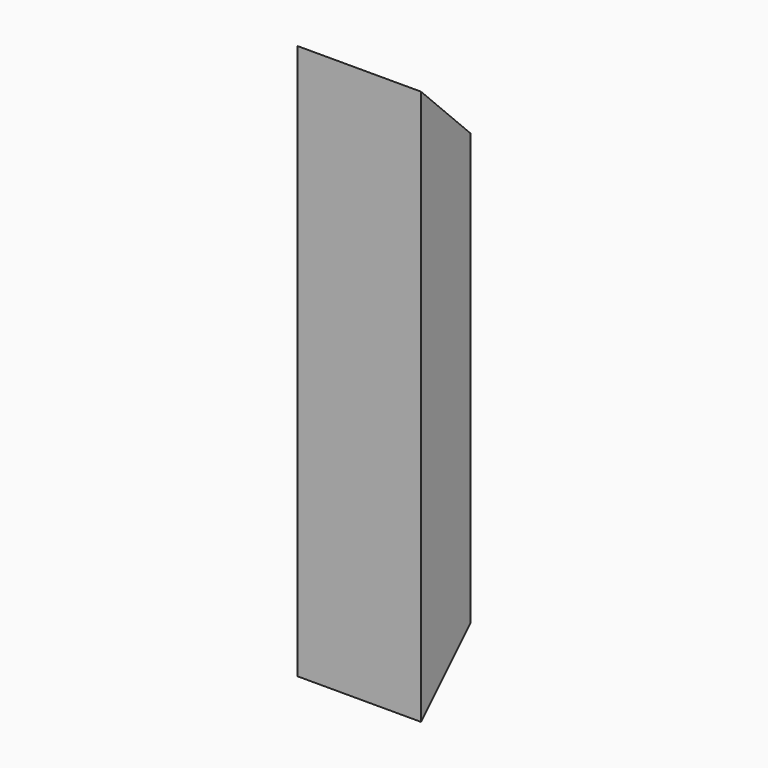
from build123d import *

# Parameters (mm, degrees)
F0_W     = 101.6
F0_H     = 50.8
F1_DEPTH = 457.2
F2_W     = 82.55
F2_H     = 31.75
F3_DEPTH = 457.2
F5_DEPTH = 101.6
F7_DEPTH = 101.6


with BuildPart() as f1:
    # F0 (on Top) → F1 (new body)
    with BuildSketch(Plane.XY):
        with Locations((50.8, 25.4)):
            Rectangle(F0_W, F0_H)
    extrude(amount=F1_DEPTH)

    # F2 (on face) → F3 (cut)
    with BuildSketch(Plane.XY.offset(457.2)):
        with Locations((50.8, 25.4)):
            Rectangle(F2_W, F2_H)
    extrude(amount=-F3_DEPTH, mode=Mode.SUBTRACT)

    # F4 (on face) → F5 (cut)
    with BuildSketch(Plane.YZ.offset(101.6)):
        Polygon((50.8, 50.8), (0, 0), (50.8, 0), align=None)
    extrude(amount=-F5_DEPTH, mode=Mode.SUBTRACT)

    # F6 (on face) → F7 (cut)
    with BuildSketch(Plane(origin=(0, 0, 0), x_dir=(0, -1, 0), z_dir=(-1, 0, 0))):
        Polygon((0, 457.2), (-50.8, 457.2), (-50.8, 406.4), align=None)
    extrude(amount=-F7_DEPTH, mode=Mode.SUBTRACT)


solid = f1.part
